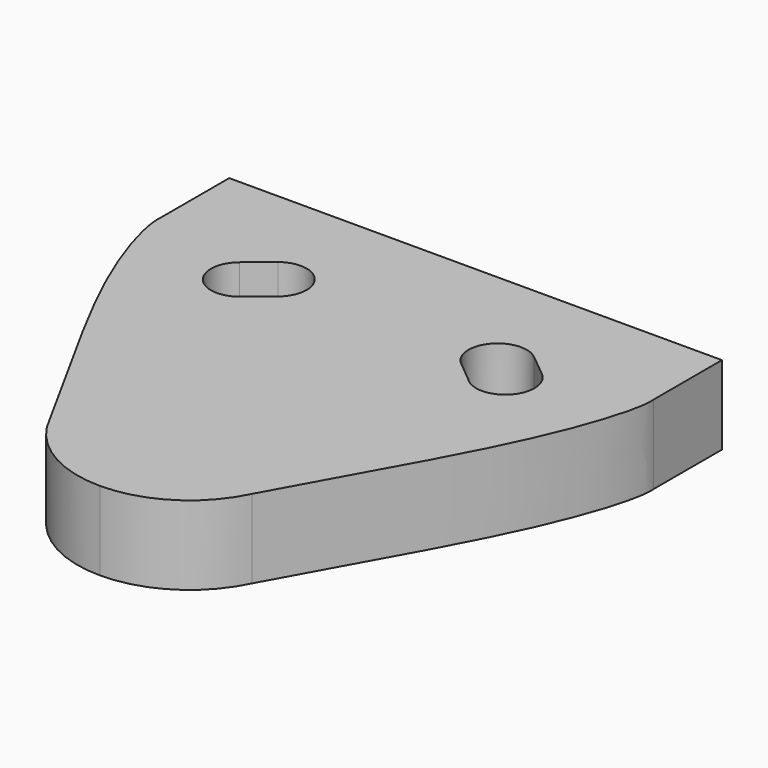
from build123d import *

# Parameters (mm, degrees)
F1_DEPTH = 4


with BuildPart() as f1:
    # F0 (on Top) → F1 (new body)
    with BuildSketch(Plane.XY):
        with BuildLine():
            add(Edge.make_bspline(
                [(-12.5000001863, -4.3325), (-12.5903241506, -5.1246283718), (-11.1238216605, -10.2491323344), (-7.2273488543, -16.6887612591), (-5.1309385057, -20.5944630208)],
                knots=[0, 0, 0, 0, 0.3762784001, 0.9668029462, 0.9668029462, 0.9668029462, 0.9668029462], degree=3))
            ThreePointArc((-5.1309385057, -20.5944630208), (-3.0312488708, -22.9491331987), (0, -23.8236036058))
            Line((0, -23.8236036058), (0, 0))
            Line((0, 0), (-12.5000001863, 0))
            Line((-12.5000001863, 0), (-12.5000001863, -4.3325))
        make_face()
        with BuildLine():
            ThreePointArc((-5.1309385057, -20.5944630208), (-5.1396245581, -20.5762770718), (-5.148246153, -20.5580604763))
            add(Edge.make_bspline(
                [(-5.1309385057, -20.5944630208), (-5.0130862543, -20.8140267842), (-4.8961301286, -21.0335032223), (-5.148246153, -20.5580604763)],
                knots=[0.9668029462, 0.9668029462, 0.9668029462, 0.9668029462, 1, 1, 1, 1], degree=3))
        make_face(mode=Mode.SUBTRACT)
        with BuildLine():
            ThreePointArc((-6.4871167413, -4.4100803792), (-4.4968571698, -4.5827845232), (-4.4933781906, -6.5805201864))
            Line((-4.4933781906, -6.5805201864), (-5.6665514142, -7.5545690335))
            ThreePointArc((-5.6665514142, -7.5545690335), (-7.8161049028, -7.5265534578), (-7.6680930135, -5.3819188611))
            Line((-7.6680930135, -5.3819188611), (-6.4871167413, -4.4100803792))
        make_face(mode=Mode.SUBTRACT)
        with BuildLine():
            add(Edge.make_bspline(
                [(-5.1309385057, -20.5944630208), (-5.0130862543, -20.8140267842), (-4.8961301286, -21.0335032223), (-5.148246153, -20.5580604763)],
                knots=[0.9668029462, 0.9668029462, 0.9668029462, 0.9668029462, 1, 1, 1, 1], degree=3))
            ThreePointArc((-5.148246153, -20.5580604763), (-5.1396245581, -20.5762770718), (-5.1309385057, -20.5944630208))
        make_face()
    extrude(amount=F1_DEPTH)

    # F2: F1 across plane


with BuildPart() as f1_1:
    add(f1.part)
    add(f1.part.mirror(Plane.YZ))


solid = f1_1.part
